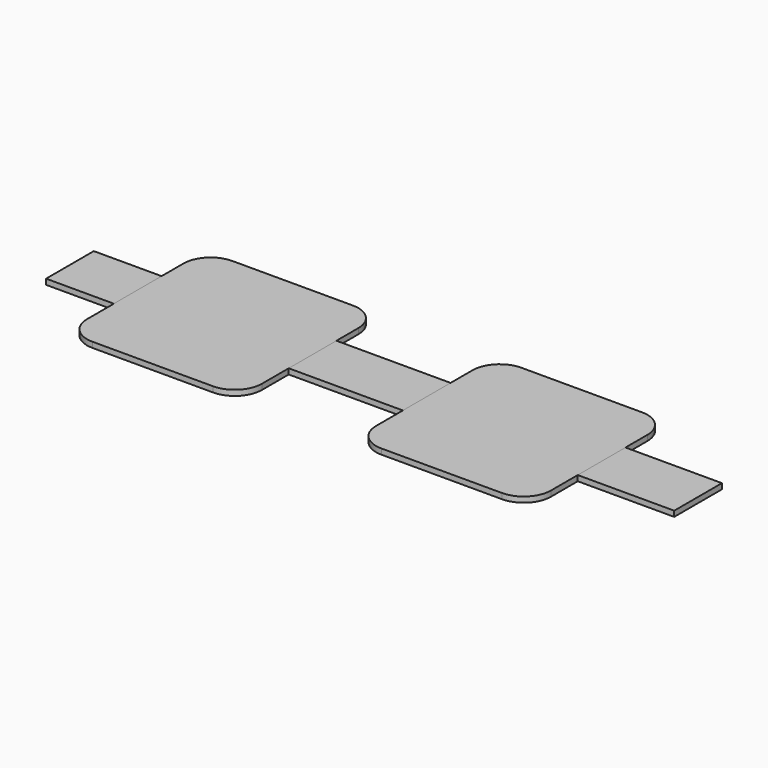
from build123d import *

# Parameters (mm, degrees)
F1_DEPTH = 0.3048
F0_W     = 3.769632
F0_H     = 3.318387
F0_W_2   = 6.35
F0_W_3   = 5.365765
F2_DEPTH = 0.3048


with BuildPart() as f1:
    # F0 (on Top) → F1 (new body)
    with BuildSketch(Plane.XY):
        with BuildLine():
            Line((-11.2141, -3.3528), (-11.2141, -1.489728))
            Line((-11.2141, -1.489728), (-11.2141, 1.828659))
            Line((-11.2141, 1.828659), (-11.2141, 3.3528))
            ThreePointArc((-11.2141, 3.3528), (-11.65675, 4.42145), (-12.7254, 4.8641))
            Line((-12.7254, 4.8641), (-19.431, 4.8641))
            ThreePointArc((-19.431, 4.8641), (-20.49965, 4.42145), (-20.9423, 3.3528))
            Line((-20.9423, 3.3528), (-20.9423, 1.828659))
            Line((-20.9423, 1.828659), (-20.9423, -1.489728))
            Line((-20.9423, -1.489728), (-20.9423, -3.3528))
            ThreePointArc((-20.9423, -3.3528), (-20.49965, -4.42145), (-19.431, -4.8641))
            Line((-19.431, -4.8641), (-12.7254, -4.8641))
            ThreePointArc((-12.7254, -4.8641), (-11.65675, -4.42145), (-11.2141, -3.3528))
        make_face()
        with BuildLine():
            Line((-3.3528, -4.8641), (3.3528, -4.8641))
            ThreePointArc((3.3528, -4.8641), (4.42145, -4.42145), (4.8641, -3.3528))
            Line((4.8641, -3.3528), (4.8641, -1.489728))
            Line((4.8641, -1.489728), (4.8641, 1.828659))
            Line((4.8641, 1.828659), (4.8641, 3.3528))
            ThreePointArc((4.8641, 3.3528), (4.42145, 4.42145), (3.3528, 4.8641))
            Line((3.3528, 4.8641), (-3.3528, 4.8641))
            ThreePointArc((-3.3528, 4.8641), (-4.42145, 4.42145), (-4.8641, 3.3528))
            Line((-4.8641, 3.3528), (-4.8641, 1.828659))
            Line((-4.8641, 1.828659), (-4.8641, -1.489728))
            Line((-4.8641, -1.489728), (-4.8641, -3.3528))
            ThreePointArc((-4.8641, -3.3528), (-4.42145, -4.42145), (-3.3528, -4.8641))
        make_face()
    extrude(amount=F1_DEPTH)


with BuildPart() as f2:
    # F0 (on Top) → F2 (new body)
    with BuildSketch(Plane.XY):
        with Locations((-22.827116, 0.169465)):
            Rectangle(F0_W, F0_H)
        with Locations((-8.0391, 0.169465)):
            Rectangle(F0_W_2, F0_H)
        with Locations((7.546983, 0.169465)):
            Rectangle(F0_W_3, F0_H)
    extrude(amount=F2_DEPTH)


solid = Compound([f1.part, f2.part])
